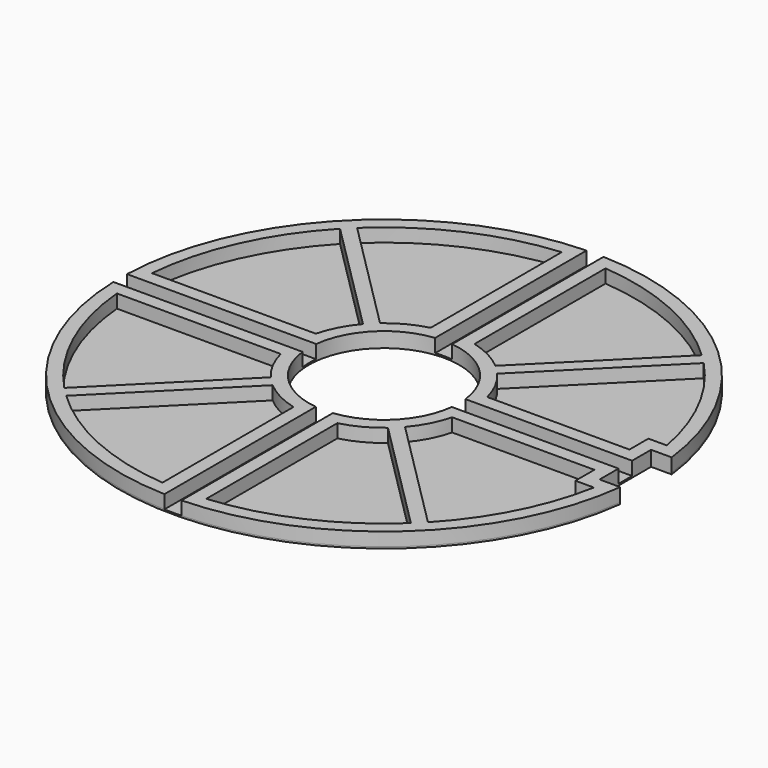
from build123d import *

# Parameters (mm, degrees)
SKETCH_R           = 98.425
PAD_DEPTH          = 0.6
PAD001_DEPTH       = 5
POLARPATTERN_COUNT = 4
SKETCH002_R        = 28
POCKET_DEPTH       = 5.601
SKETCH003_W        = 15
SKETCH003_H        = 24
POCKET001_DEPTH    = 5.601
POCKET002_DEPTH    = 5
POCKET003_DEPTH    = 5


with BuildPart() as part:
    # Sketch → Pad (new body)
    with BuildSketch(Plane.XY):
        Circle(SKETCH_R)
    extrude(amount=-PAD_DEPTH)

    # Sketch001 → Pad001 (new body)
    with BuildSketch(Plane.XY):
        with BuildLine():
            ThreePointArc((3.175, -21.997045), (15.715448, -15.715448), (21.997045, -3.175))
            Line((21.997045, -3.175), (98.373777, -3.175))
            ThreePointArc((3.175, -98.373777), (69.596985, -69.596985), (98.373777, -3.175))
            Line((3.175, -21.997045), (3.175, -98.373777))
        make_face()
    pad001 = extrude(amount=PAD001_DEPTH)

    # PolarPattern: Pad001 ×4 about axis
    polarpattern_axis = Axis((0, 0, 0), (0, 0, 1))
    for i in range(1, POLARPATTERN_COUNT):
        add(pad001.rotate(polarpattern_axis, i * 360 / POLARPATTERN_COUNT))

    # Sketch002 → Pocket (cut, through all)
    with BuildSketch(Plane.XY.offset(5)):
        Circle(SKETCH002_R)
    extrude(amount=-POCKET_DEPTH, mode=Mode.SUBTRACT)

    # Sketch003 → Pocket001 (cut, through all)
    with BuildSketch(Plane(origin=(0, 0, -0.6), x_dir=(1, 0, 0), z_dir=(0, 0, -1))):
        with Locations((97.5, 0)):
            Rectangle(SKETCH003_W, SKETCH003_H)
    extrude(amount=-POCKET001_DEPTH, mode=Mode.SUBTRACT)

    # Sketch004 → Pocket002 (cut)
    with BuildSketch(Plane.XY.offset(5)):
        with BuildLine():
            ThreePointArc((8.175, -31.971384), (15.237308, -29.271564), (21.499759, -25.035183))
            Line((21.499759, -25.035183), (64.270084, -67.805508))
            ThreePointArc((8.175, -93.066643), (38.361488, -85.185837), (64.270084, -67.805508))
            Line((8.175, -31.971384), (8.175, -93.066643))
        make_face()
        with BuildLine():
            ThreePointArc((25.035284, -21.499641), (29.2716, -15.237239), (31.971384, -8.175))
            Line((31.971384, -8.175), (85, -8.175))
            Line((85, -17), (85, -8.175))
            Line((85, -17), (91.865285, -17))
            ThreePointArc((67.805615, -64.269971), (83.260505, -42.378284), (91.865285, -17))
            Line((25.035284, -21.499641), (67.805615, -64.269971))
        make_face()
    pocket002 = extrude(amount=-POCKET002_DEPTH, mode=Mode.SUBTRACT)

    # Mirrored: Pocket002 across Sketch004 H_Axis
    add(pocket002.mirror(Plane(origin=(0, 0, 5), x_dir=(0, 0, 1), z_dir=(0, 1, 0))), mode=Mode.SUBTRACT)

    # Sketch005 → Pocket003 (cut)
    with BuildSketch(Plane.XY.offset(5)):
        with BuildLine():
            ThreePointArc((-31.971384, -8.175), (-29.271564, -15.237308), (-25.035182, -21.49976))
            Line((-25.035182, -21.49976), (-67.805507, -64.270085))
            ThreePointArc((-93.066643, -8.175), (-85.185837, -38.361489), (-67.805507, -64.270085))
            Line((-93.066643, -8.175), (-31.971384, -8.175))
        make_face()
        with BuildLine():
            ThreePointArc((-21.49964, -25.035285), (-15.237238, -29.2716), (-8.175, -31.971384))
            Line((-8.175, -31.971384), (-8.175, -93.066643))
            ThreePointArc((-64.26997, -67.805616), (-38.361417, -85.185869), (-8.175, -93.066643))
            Line((-21.49964, -25.035285), (-64.26997, -67.805616))
        make_face()
    pocket003 = extrude(amount=-POCKET003_DEPTH, mode=Mode.SUBTRACT)

    # Mirrored001: Pocket003 across Sketch005 H_Axis
    add(pocket003.mirror(Plane(origin=(0, 0, 5), x_dir=(0, 0, 1), z_dir=(0, 1, 0))), mode=Mode.SUBTRACT)


solid = part.part
